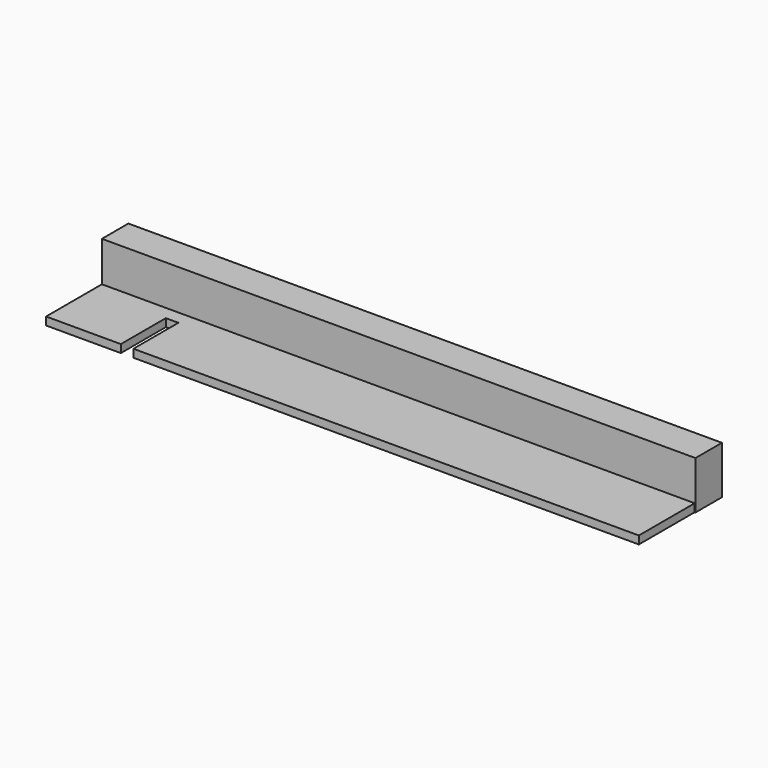
from build123d import *

# Parameters (mm, degrees)
F0_W     = 153
F0_H     = 69
F1_DEPTH = 1.7
F2_W     = 15
F2_H     = 4.6
F2_W_2   = 8
F2_W_3   = 1.9
F2_H_2   = 8.5
F2_W_4   = 18.5
F2_H_3   = 12.6
F2_R     = 2
F2_R_2   = 1.7
F2_W_5   = 6.6
F2_H_4   = 2.1
F3_DEPTH = 1.701
F4_W     = 89.7158287823
F4_H     = 5
F5_DEPTH = 1.701
F6_DEPTH = 7.25
F8_DEPTH = 7.251
F9_DEPTH = 0.5


with BuildPart() as f1:
    # F0 (on Top) → F1 (new body)
    with BuildSketch(Plane.XY):
        Rectangle(F0_W, F0_H)
    extrude(amount=F1_DEPTH)

    # F2 (on face) → F3 (cut, through all)
    with BuildSketch(Plane.XY.offset(1.7)):
        with Locations((-69, -32.2)):
            Rectangle(F2_W, F2_H)
        Polygon((-61.5, -29.9), (-61.5, -34.5), (-43.1, -34.5), (-43.1, -29.9), (-43.1, -21.9), (-61.5, -21.9), align=None)
        with Locations((-39.1, -32.2)):
            Rectangle(F2_W_2, F2_H)
        Polygon((-35.1, -29.9), (-35.1, -34.5), (-31.6, -34.5), (-31.6, -21.9), (-35.1, -21.9), align=None)
        with Locations((-19.35, -30.25)):
            Rectangle(F2_W_3, F2_H_2)
        with Locations((67.25, -28.2)):
            Rectangle(F2_W_4, F2_H_3)
        with Locations((-69, -24.9)):
            Circle(F2_R)
        with Locations((-69, 19.1)):
            Circle(F2_R)
        with Locations((71.5, 18.8)):
            Circle(F2_R_2)
        with Locations((71.5, -6.2)):
            Circle(F2_R_2)
        with Locations((41.5, 18.8)):
            Circle(F2_R_2)
        with Locations((41.5, -6.2)):
            Circle(F2_R_2)
        with Locations((-38.5, 29.05)):
            Rectangle(F2_W_5, F2_H_4)
        with Locations((-38.5, 8.55)):
            Rectangle(F2_W_5, F2_H_4)
        with Locations((-38.5, -16.45)):
            Rectangle(F2_W_5, F2_H_4)
        with Locations((-38.5, 4.05)):
            Rectangle(F2_W_5, F2_H_4)
        with Locations((61.5, 29.05)):
            Rectangle(F2_W_5, F2_H_4)
        with Locations((61.5, 8.55)):
            Rectangle(F2_W_5, F2_H_4)
        with Locations((61.5, 4.05)):
            Rectangle(F2_W_5, F2_H_4)
        with Locations((61.5, -16.45)):
            Rectangle(F2_W_5, F2_H_4)
        with Locations((-18.5, 18.8)):
            Circle(F2_R_2)
        with Locations((-48.5, 18.8)):
            Circle(F2_R_2)
        with Locations((-18.5, -6.2)):
            Circle(F2_R_2)
        with Locations((-48.5, -6.2)):
            Circle(F2_R_2)
    extrude(amount=-F3_DEPTH, mode=Mode.SUBTRACT)

    # F4 (on Top) → F5 (cut, through all)
    with BuildSketch(Plane.XY):
        with Locations((13.2579143912, -21.45)):
            Rectangle(F4_W, F4_H)
    extrude(amount=F5_DEPTH, mode=Mode.SUBTRACT)

    # F4 (on Top) → F6 (join)
    with BuildSketch(Plane.XY):
        with Locations((13.2579143912, -21.45)):
            Rectangle(F4_W, F4_H)
    extrude(amount=F6_DEPTH)

    # F7 (on Top) → F8 (cut, through all)
    with BuildSketch(Plane.XY):
        Polygon((76.5, -21.9), (76.5, 34.5), (-76.5, 34.5), (-76.5, -29.9), (-61.5, -29.9), (-61.5, -21.9), (-43.1, -21.9), (-43.1, -29.9), (-35.1, -29.9), (-35.1, -21.9), (-31.6, -21.9), (-31.6, -18.95), (58.1158287823, -18.95), (58.1158287823, -21.9), align=None)
    extrude(amount=F8_DEPTH, mode=Mode.SUBTRACT)

    # F9 (cut): a face of the model
    f9_faces = [f1.faces().sort_by_distance(p)[0] for p in [
        (13.7657792774, -29.2071836019, 1.7),
    ]]
    extrude(f9_faces, amount=-F9_DEPTH, mode=Mode.SUBTRACT)


solid = f1.part
